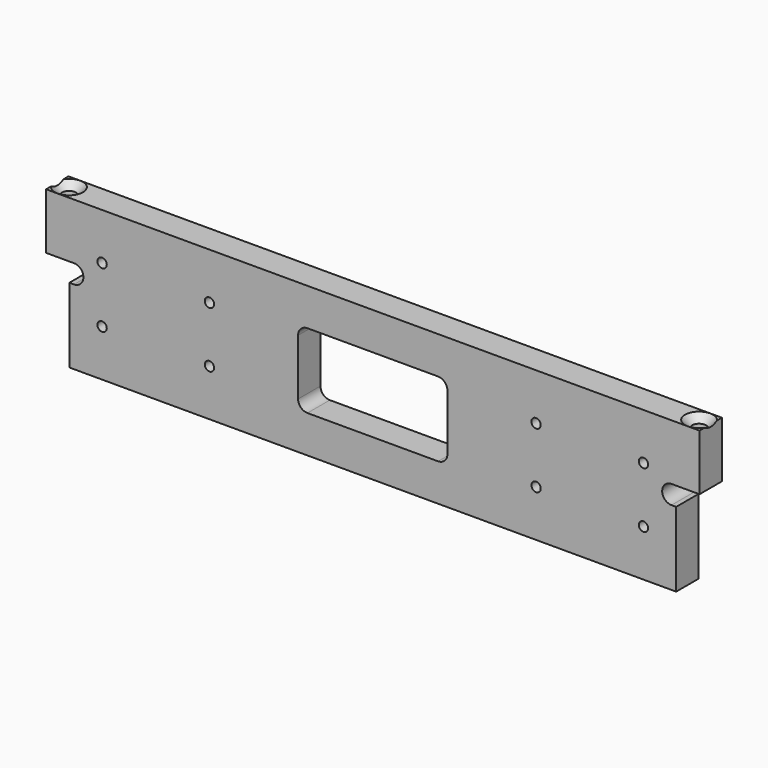
from build123d import *

# Parameters (mm, degrees)
F0_R           = 1.5875
F0_W           = 50.8
F0_H           = 25.4
F1_DEPTH       = 9.525
F2_R           = 3.175
F4_D           = 4.7625
F4_CSINK_D     = 9.525
F4_CSINK_ANGLE = 90


with BuildPart() as f1:
    # F0 (on Front) → F1 (new body)
    with BuildSketch(Plane.XZ):
        with BuildLine():
            Line((0, 25.4), (0, 0))
            Line((0, 0), (206.375, 0))
            Line((206.375, 0), (206.375, 25.4))
            Line((206.375, 25.4), (204.7875, 25.4))
            ThreePointArc((204.7875, 25.4), (201.6125, 28.575), (204.7875, 31.75))
            Line((204.7875, 31.75), (206.375, 31.75))
            Line((206.375, 31.75), (214.3125, 31.75))
            Line((214.3125, 31.75), (214.3125, 50.8))
            Line((214.3125, 50.8), (206.375, 50.8))
            Line((206.375, 50.8), (0, 50.8))
            Line((0, 50.8), (-7.9375, 50.8))
            Line((-7.9375, 50.8), (-7.9375, 31.75))
            Line((-7.9375, 31.75), (0, 31.75))
            Line((0, 31.75), (1.5875, 31.75))
            ThreePointArc((1.5875, 31.75), (3.832564, 30.820064), (4.7625, 28.575))
            ThreePointArc((4.7625, 28.575), (3.832564, 26.329936), (1.5875, 25.4))
            Line((1.5875, 25.4), (0, 25.4))
        make_face()
        with Locations((11.1125, 15.875)):
            Circle(F0_R, mode=Mode.SUBTRACT)
        with Locations((47.625, 15.875)):
            Circle(F0_R, mode=Mode.SUBTRACT)
        with Locations((103.1748, 25.4)):
            Rectangle(F0_W, F0_H, mode=Mode.SUBTRACT)
        with Locations((158.7246, 15.875)):
            Circle(F0_R, mode=Mode.SUBTRACT)
        with Locations((195.2498, 15.875)):
            Circle(F0_R, mode=Mode.SUBTRACT)
        with Locations((11.1125, 34.925)):
            Circle(F0_R, mode=Mode.SUBTRACT)
        with Locations((47.625, 34.925)):
            Circle(F0_R, mode=Mode.SUBTRACT)
        with Locations((158.7246, 34.925)):
            Circle(F0_R, mode=Mode.SUBTRACT)
        with Locations((195.2498, 34.925)):
            Circle(F0_R, mode=Mode.SUBTRACT)
    extrude(amount=F1_DEPTH)

    # F2
    f2_edges = [f1.edges().sort_by_distance(p)[0] for p in [
        (77.7748, -4.7625, 12.7),
        (128.5748, -4.7625, 12.7),
        (77.7748, -4.7625, 38.1),
        (128.5748, -4.7625, 38.1),
    ]]
    fillet(f2_edges, radius=F2_R)

    # F4 (through all)
    with Locations(Plane.XY.offset(50.8)):
        with Locations((-3.96875, -4.7625), (210.34375, -4.7625)):
            CounterSinkHole(F4_D / 2, F4_CSINK_D / 2, counter_sink_angle=F4_CSINK_ANGLE)


solid = f1.part
